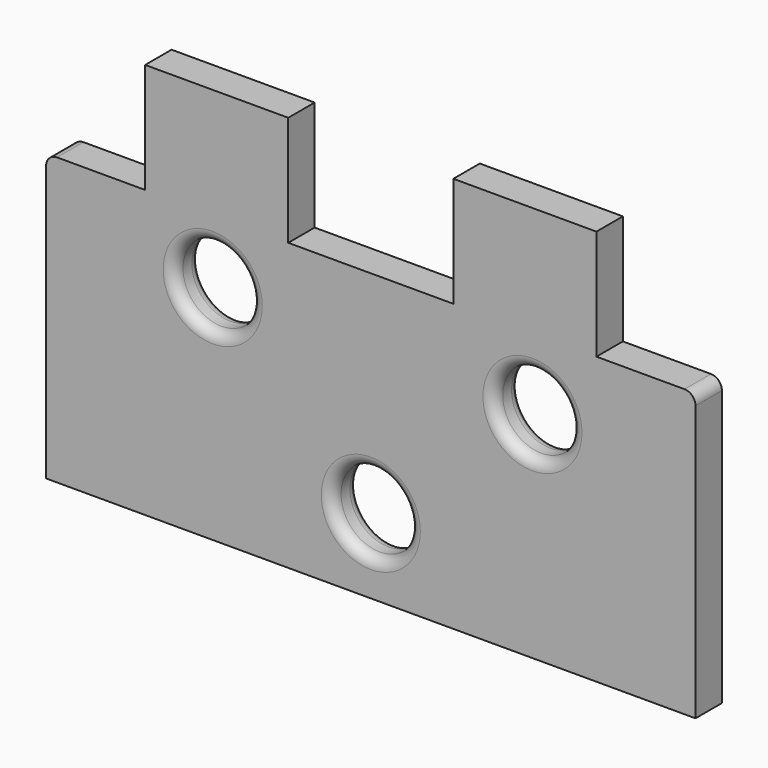
from build123d import *

# Parameters (mm, degrees)
F0_R     = 3.5
F0_W     = 13
F0_H     = 10
F1_DEPTH = 1.5
F2_R     = 1
F3_R     = 1


with BuildPart() as f1:
    # F0 (on Front) → F1 (new body, symmetric)
    with BuildSketch(Plane.XZ):
        Polygon((-29.5, -13), (29.5, -13), (29.5, 13), (20.5, 13), (7.5, 13), (-7.5, 13), (-20.5, 13), (-29.5, 13), align=None)
        with Locations((0, -6.193141)):
            Circle(F0_R, mode=Mode.SUBTRACT)
        with Locations((-14.358868, 7.18544)):
            Circle(F0_R, mode=Mode.SUBTRACT)
        with Locations((14.686735, 6.481303)):
            Circle(F0_R, mode=Mode.SUBTRACT)
        with Locations((14, 18)):
            Rectangle(F0_W, F0_H)
        with Locations((-14, 18)):
            Rectangle(F0_W, F0_H)
    extrude(amount=F1_DEPTH, both=True)

    # F2
    f2_edges = [f1.edges().sort_by_distance(p)[0] for p in [
        (-29.5, 0, 13),
        (29.5, 0, 13),
        (-17.858868, -1.5, 7.18544),
        (11.186735, -1.5, 6.481303),
        (-3.5, -1.5, -6.193141),
    ]]
    fillet(f2_edges, radius=F2_R)

    # F3
    f3_edges = [f1.edges().sort_by_distance(p)[0] for p in [
        (11.186735, 1.5, 6.481303),
        (-17.858868, 1.5, 7.18544),
        (-3.5, 1.5, -6.193141),
    ]]
    fillet(f3_edges, radius=F3_R)


solid = f1.part
